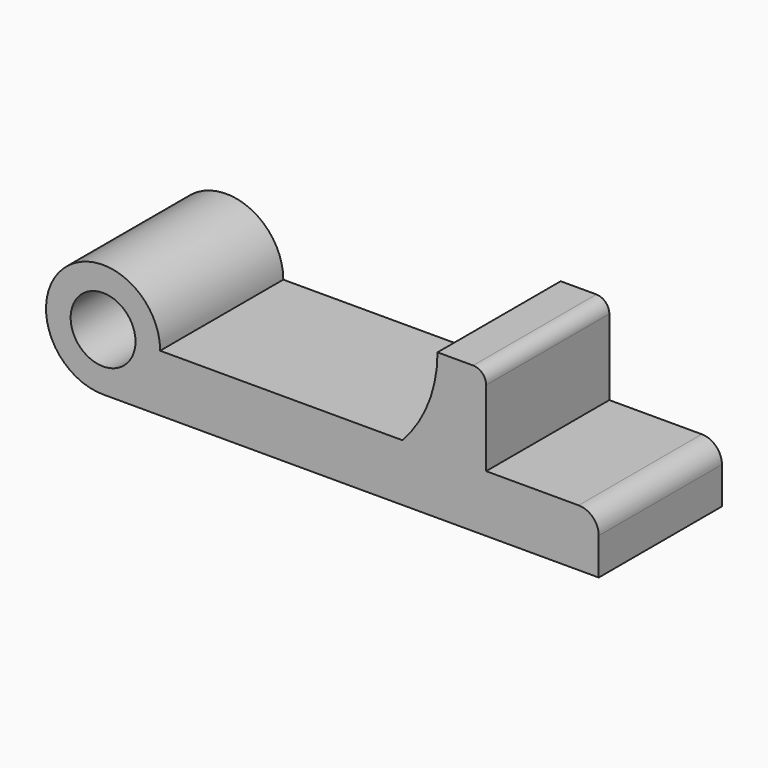
from build123d import *

# Parameters (mm, degrees)
F0_R     = 12.7
F1_DEPTH = 30.1625


with BuildPart() as f1:
    # F0 (on Front) → F1 (new body, symmetric)
    with BuildSketch(Plane.XZ):
        with BuildLine():
            Line((117.2464, 0), (22.352, 0))
            ThreePointArc((22.352, 0), (-15.805251, 15.805251), (0, -22.352))
            Line((0, -22.352), (194.2084, -22.352))
            Line((194.2084, -22.352), (194.2084, -7.874))
            ThreePointArc((194.2084, -7.874), (191.902159, -2.306241), (186.3344, 0))
            Line((186.3344, 0), (150.0886, 0))
            Line((150.0886, 0), (150.0886, 29.718))
            ThreePointArc((150.0886, 29.718), (148.600702, 33.310102), (145.0086, 34.798))
            Line((145.0086, 34.798), (131.0386, 34.798))
            ThreePointArc((131.0386, 34.798), (127.464415, 16.082358), (117.2464, 0))
        make_face()
        Circle(F0_R, mode=Mode.SUBTRACT)
    extrude(amount=F1_DEPTH, both=True)


solid = f1.part
